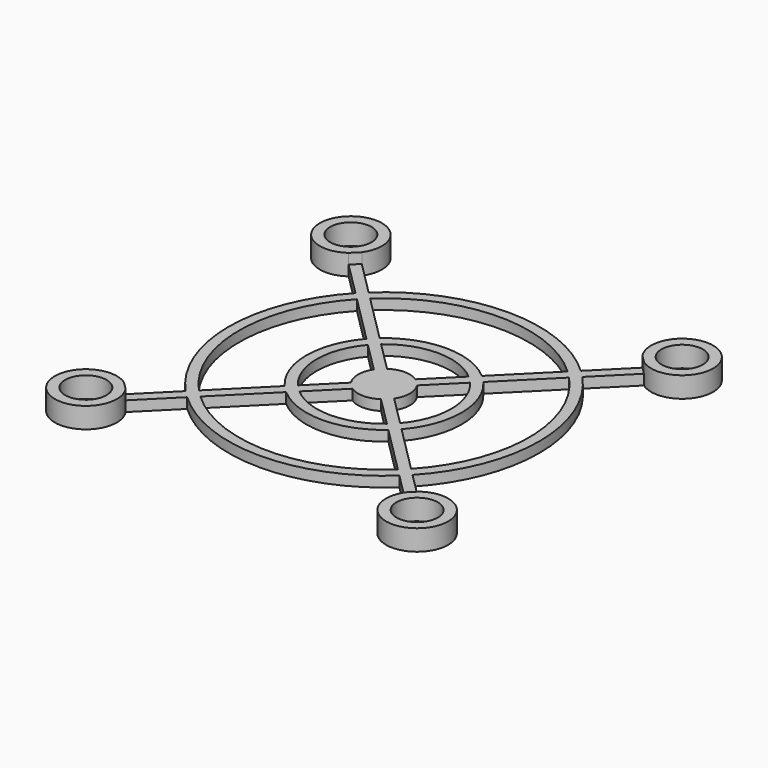
from build123d import *

# Parameters (mm, degrees)
SKETCH_R     = 2
PAD_DEPTH    = 2
SKETCH001_R  = 19.675731
POCKET_DEPTH = 1


with BuildPart() as part:
    # Sketch → Pad (new body)
    with BuildSketch(Plane.XY):
        with BuildLine():
            ThreePointArc((6.445203, 34.261903), (1.87868, 38.12132), (5.738097, 33.554797))
            Line((5.738097, 33.554797), (9.045739, 30.247154))
            ThreePointArc((9.045739, 30.247154), (5, 20), (9.045739, 9.752846))
            Line((9.045739, 9.752846), (5.738097, 6.445203))
            ThreePointArc((5.738097, 6.445203), (1.87868, 1.87868), (6.445203, 5.738097))
            Line((6.445203, 5.738097), (9.752846, 9.045739))
            ThreePointArc((9.752846, 9.045739), (20, 5), (30.247154, 9.045739))
            Line((33.554797, 5.738097), (30.247154, 9.045739))
            ThreePointArc((33.554797, 5.738097), (38.12132, 1.87868), (34.261903, 6.445203))
            Line((34.261903, 6.445203), (30.954261, 9.752846))
            ThreePointArc((30.954261, 9.752846), (35, 20), (30.954261, 30.247154))
            Line((30.954261, 30.247154), (34.261903, 33.554797))
            ThreePointArc((34.261903, 33.554797), (38.12132, 38.12132), (33.554797, 34.261903))
            Line((33.554797, 34.261903), (30.247154, 30.954261))
            ThreePointArc((30.247154, 30.954261), (20, 35), (9.752846, 30.954261))
            Line((6.445203, 34.261903), (9.752846, 30.954261))
        make_face()
        with Locations((4, 36)):
            Circle(SKETCH_R, mode=Mode.SUBTRACT)
        with Locations((36, 36)):
            Circle(SKETCH_R, mode=Mode.SUBTRACT)
        with Locations((4, 4)):
            Circle(SKETCH_R, mode=Mode.SUBTRACT)
        with Locations((36, 4)):
            Circle(SKETCH_R, mode=Mode.SUBTRACT)
        with BuildLine():
            ThreePointArc((30.246733, 10.460374), (34, 20), (30.246733, 29.539626))
            Line((25.645056, 24.937949), (30.246733, 29.539626))
            ThreePointArc((25.645056, 15.062051), (27.5, 20), (25.645056, 24.937949))
            Line((30.246733, 10.460374), (25.645056, 15.062051))
        make_face(mode=Mode.SUBTRACT)
        with BuildLine():
            ThreePointArc((14.354944, 24.937949), (12.5, 20), (14.354944, 15.062051))
            Line((14.354944, 15.062051), (9.753267, 10.460374))
            ThreePointArc((9.753267, 29.539626), (6, 20), (9.753267, 10.460374))
            Line((9.753267, 29.539626), (14.354944, 24.937949))
        make_face(mode=Mode.SUBTRACT)
        with BuildLine():
            ThreePointArc((24.936129, 15.770978), (26.5, 20), (24.936129, 24.229022))
            Line((22.085604, 21.378497), (24.936129, 24.229022))
            ThreePointArc((22.085604, 18.621503), (22.5, 20), (22.085604, 21.378497))
            Line((22.085604, 18.621503), (24.936129, 15.770978))
        make_face(mode=Mode.SUBTRACT)
        with BuildLine():
            ThreePointArc((17.914396, 21.378497), (17.5, 20), (17.914396, 18.621503))
            Line((17.914396, 18.621503), (15.063871, 15.770978))
            ThreePointArc((15.063871, 24.229022), (13.5, 20), (15.063871, 15.770978))
            Line((15.063871, 24.229022), (17.914396, 21.378497))
        make_face(mode=Mode.SUBTRACT)
        with BuildLine():
            Line((10.460374, 30.246733), (15.062051, 25.645056))
            ThreePointArc((24.937949, 25.645056), (20, 27.5), (15.062051, 25.645056))
            Line((29.539626, 30.246733), (24.937949, 25.645056))
            ThreePointArc((29.539626, 30.246733), (20, 34), (10.460374, 30.246733))
        make_face(mode=Mode.SUBTRACT)
        with BuildLine():
            Line((15.770978, 24.936129), (18.621503, 22.085604))
            ThreePointArc((21.378497, 22.085604), (20, 22.5), (18.621503, 22.085604))
            Line((24.229022, 24.936129), (21.378497, 22.085604))
            ThreePointArc((24.229022, 24.936129), (20, 26.5), (15.770978, 24.936129))
        make_face(mode=Mode.SUBTRACT)
        with BuildLine():
            Line((24.937949, 14.354944), (29.539626, 9.753267))
            ThreePointArc((10.460374, 9.753267), (20, 6), (29.539626, 9.753267))
            Line((10.460374, 9.753267), (15.062051, 14.354944))
            ThreePointArc((15.062051, 14.354944), (20, 12.5), (24.937949, 14.354944))
        make_face(mode=Mode.SUBTRACT)
        with BuildLine():
            Line((24.229022, 15.063871), (21.378497, 17.914396))
            ThreePointArc((18.621503, 17.914396), (20, 17.5), (21.378497, 17.914396))
            Line((15.770978, 15.063871), (18.621503, 17.914396))
            ThreePointArc((15.770978, 15.063871), (20, 13.5), (24.229022, 15.063871))
        make_face(mode=Mode.SUBTRACT)
    extrude(amount=PAD_DEPTH)

    # Sketch001 (on Face54 of Pad) → Pocket (cut)
    with BuildSketch(Plane.XY.offset(2)):
        with Locations((20, 20)):
            Circle(SKETCH001_R)
    extrude(amount=-POCKET_DEPTH, mode=Mode.SUBTRACT)


solid = part.part
